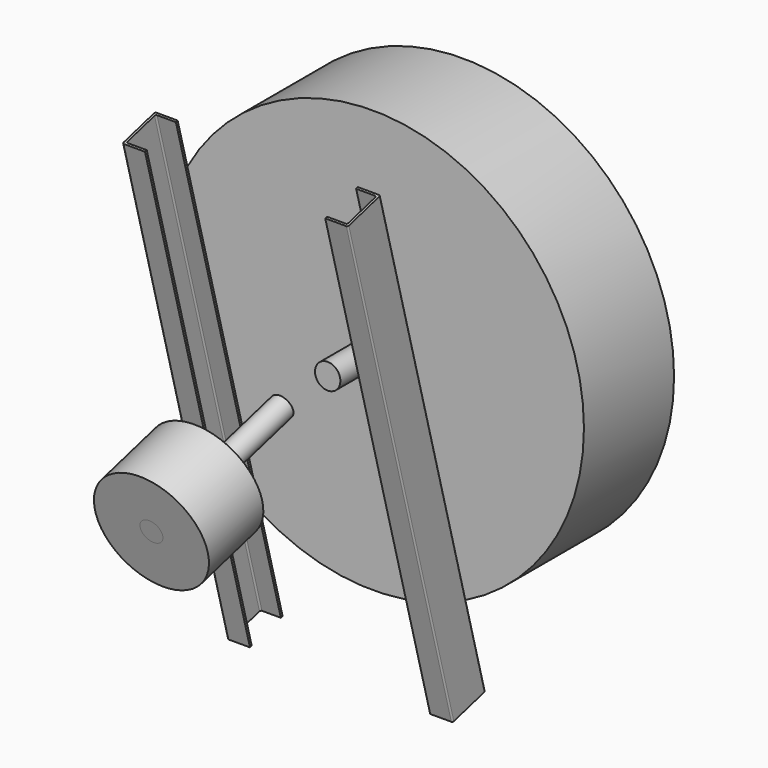
from build123d import *

# Parameters (mm, degrees)
F0_R          = 750
F0_R_2        = 45
F1_DEPTH      = 400
F2_DEPTH      = 600
F2_DEPTH_BACK = 100
F4_START      = 320
F4_DEPTH      = 80
F5_W          = 72
F5_H          = 134
F6_DEPTH      = 1966.9105225513
F7_R          = 5
F10_R         = 40
F11_DEPTH     = 600
F12_R         = 200
F12_R_2       = 40
F13_DEPTH     = 250


with BuildPart() as f1:
    # F0 (on Front) → F1 (new body)
    with BuildSketch(Plane.XZ):
        Circle(F0_R)
        Circle(F0_R_2, mode=Mode.SUBTRACT)
    extrude(amount=F1_DEPTH)


with BuildPart() as f2:
    # F0 (on Front) → F2 (new body, two sides)
    with BuildSketch(Plane.XZ) as f2_sk:
        Circle(F0_R_2)
    extrude(amount=F2_DEPTH)
    extrude(f2_sk.sketch, amount=-F2_DEPTH_BACK)


with BuildPart() as f4:
    # F3 (on Right) → F4 (new body)
    with BuildSketch(Plane.YZ.offset(F4_START)):
        Polygon((-544.8888739434, -974.2234780659), (-400, -935.4006213005), (-865.8742811845, 803.2658660198), (-1010.7631551279, 764.4430092544), align=None)
    extrude(amount=F4_DEPTH)

    # F5 (on face) → F6 (cut, through all)
    with BuildSketch(Plane(origin=(0, -258.8190451025, 965.9258262891), x_dir=(1, 0, 0), z_dir=(0, -0.2588190451, 0.9659258263))):
        with Locations((356, -703.4698261089)):
            Rectangle(F5_W, F5_H)
    extrude(amount=-F6_DEPTH, mode=Mode.SUBTRACT)

    # F7
    f7_edges = [f4.edges().sort_by_distance(p)[0] for p in [
        (392, -770.098608, -102.819682),
        (392, -640.664547, -68.13793),
        (400, -777.826015, -104.890234),
        (400, -632.937141, -66.067378),
    ]]
    fillet(f7_edges, radius=F7_R)


with BuildPart() as f8_1:
    # F8: instance of F4
    add(f4.part.mirror(Plane.YZ))


with BuildPart() as f11:
    # F10 (on face) → F11 (new body)
    with BuildSketch(Plane(origin=(0, -751.9441100254, -201.4828170346), x_dir=(1, 0, 0), z_dir=(0, -0.9659258263, -0.2588190451))):
        with Locations((0, 195.7695554011)):
            Circle(F10_R)
    extrude(amount=F11_DEPTH)


with BuildPart() as f13:
    # F12 (on face) → F13 (new body)
    with BuildSketch(Plane(origin=(0, -1331.4996057988, -356.7742440962), x_dir=(1, 0, 0), z_dir=(0, -0.9659258263, -0.2588190451))):
        with Locations((0, 195.7695554011)):
            Circle(F12_R)
        with Locations((0, 195.7695554011)):
            Circle(F12_R_2, mode=Mode.SUBTRACT)
    extrude(amount=-F13_DEPTH)


solid = Compound([f1.part, f2.part, f4.part, f8_1.part, f11.part, f13.part])
